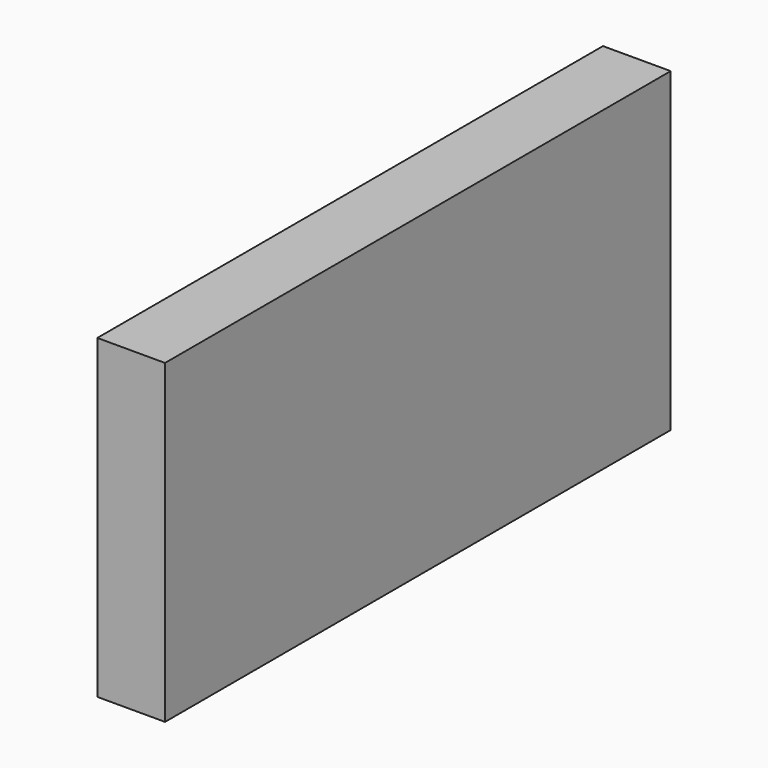
from build123d import *

# Parameters (mm, degrees)
BOX_W     = 30
BOX_H     = 280
BOX_DEPTH = 140


with BuildPart() as part:
    # Box → Box (new body)
    with BuildSketch(Plane.XY):
        with Locations((15, 140)):
            Rectangle(BOX_W, BOX_H)
    extrude(amount=BOX_DEPTH)


solid = part.part
